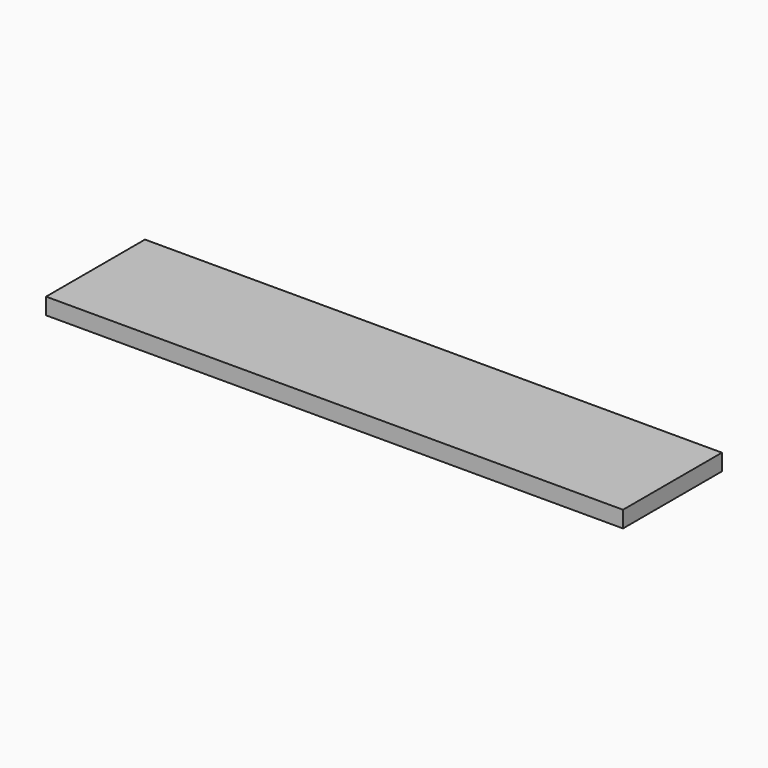
from build123d import *

# Parameters (mm, degrees)
SKETCH_W  = 420
SKETCH_H  = 90
PAD_DEPTH = 12


with BuildPart() as part:
    # Sketch → Pad (new body)
    with BuildSketch(Plane.XY):
        with Locations((210, 45)):
            Rectangle(SKETCH_W, SKETCH_H)
    extrude(amount=PAD_DEPTH)


solid = part.part
